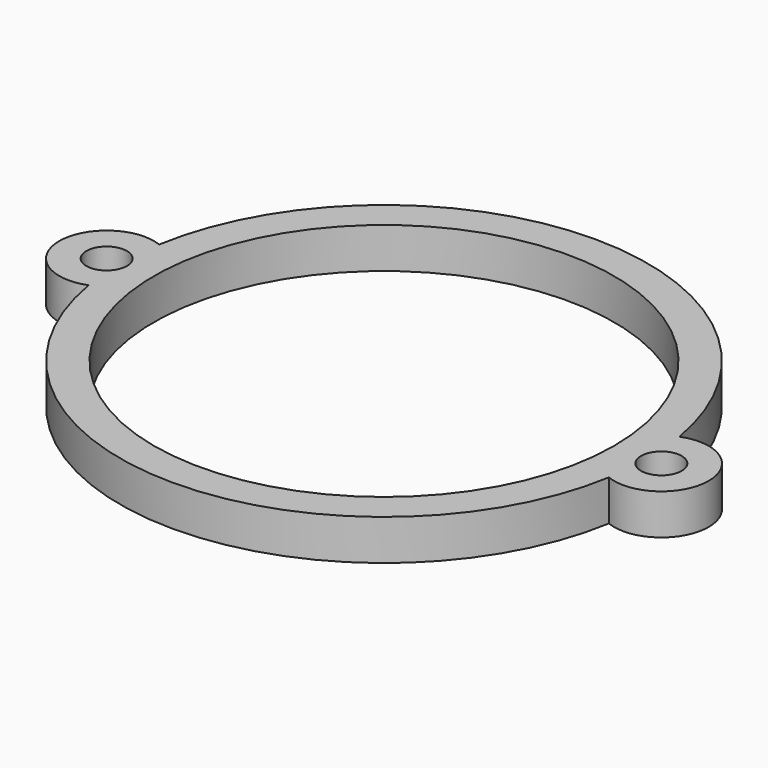
from build123d import *

# Parameters (mm, degrees)
SKETCH_R   = 17
SKETCH_R_2 = 1.5
PAD_DEPTH  = 3


with BuildPart() as part:
    # Sketch → Pad (new body)
    with BuildSketch(Plane.XY):
        with BuildLine():
            ThreePointArc((19.22561, 3.259744), (0, 19.5), (-19.22561, 3.259744))
            ThreePointArc((-19.22561, 3.259744), (-24, 0), (-19.22561, -3.259744))
            ThreePointArc((-19.22561, -3.259744), (0, -19.5), (19.22561, -3.259744))
            ThreePointArc((19.22561, -3.259744), (24, 0), (19.22561, 3.259744))
        make_face()
        Circle(SKETCH_R, mode=Mode.SUBTRACT)
        with Locations((20.5, 0)):
            Circle(SKETCH_R_2, mode=Mode.SUBTRACT)
        with Locations((-20.5, 0)):
            Circle(SKETCH_R_2, mode=Mode.SUBTRACT)
    extrude(amount=PAD_DEPTH)


solid = part.part
